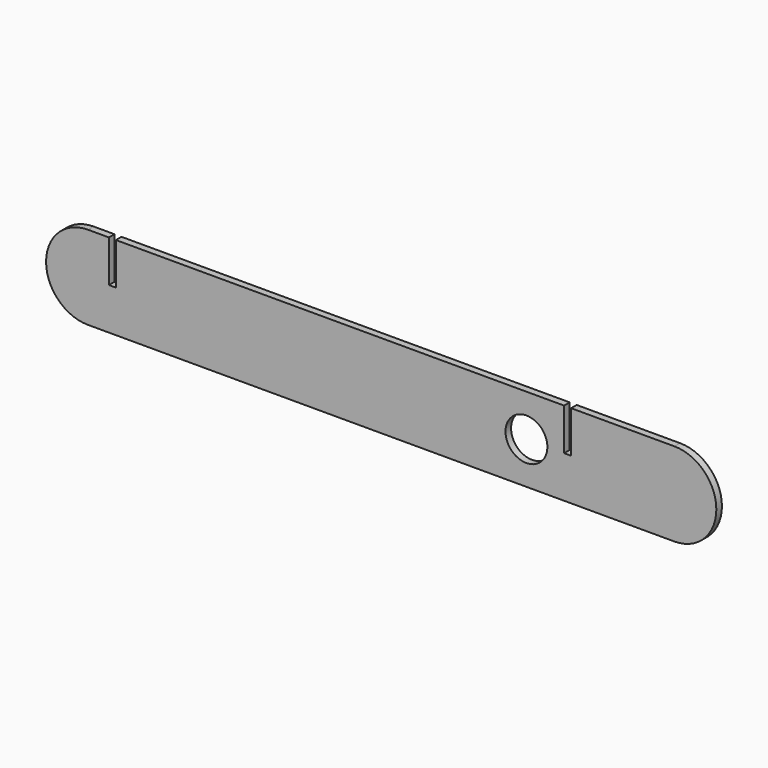
from build123d import *

# Parameters (mm, degrees)
F0_R     = 4.7625
F1_DEPTH = 1.5875


with BuildPart() as f1:
    # F0 (on Front) → F1 (new body)
    with BuildSketch(Plane.XZ):
        with BuildLine():
            Line((-66.675, -9.525), (66.675, -9.525))
            ThreePointArc((66.675, -9.525), (76.2, 0), (66.675, 9.525))
            Line((66.675, 9.525), (43.18, 9.525))
            Line((43.18, 9.525), (43.18, 0))
            Line((43.18, 0), (41.5925, 0))
            Line((41.5925, 0), (41.5925, 9.525))
            Line((41.5925, 9.525), (-60.325, 9.525))
            Line((-60.325, 9.525), (-60.325, 0))
            Line((-60.325, 0), (-61.9125, 0))
            Line((-61.9125, 0), (-61.9125, 9.525))
            Line((-61.9125, 9.525), (-66.675, 9.525))
            ThreePointArc((-66.675, 9.525), (-76.2, 0), (-66.675, -9.525))
        make_face()
        with Locations((33.02, 0)):
            Circle(F0_R, mode=Mode.SUBTRACT)
    extrude(amount=F1_DEPTH)


solid = f1.part
